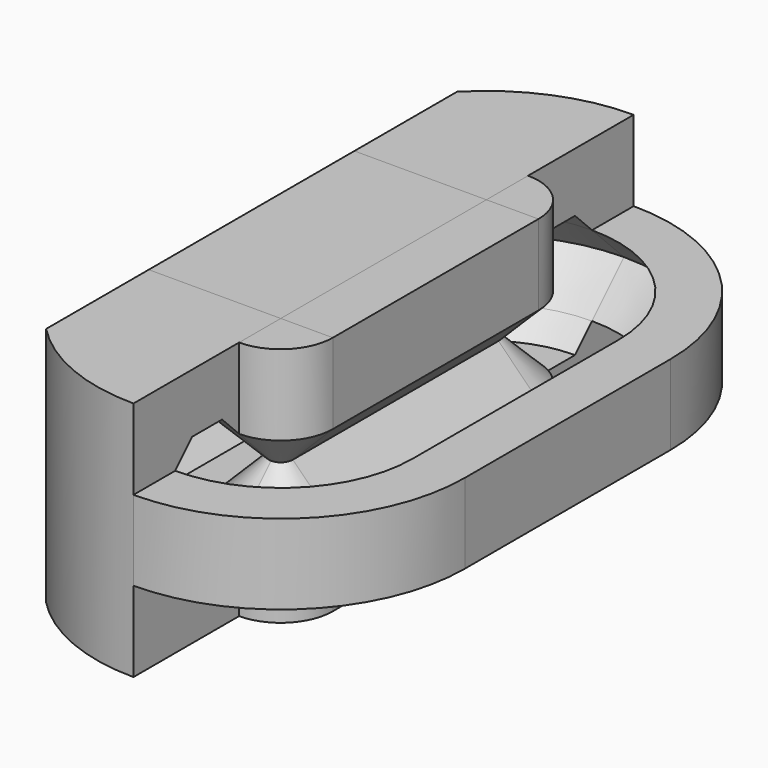
from build123d import *

# Parameters (mm, degrees)
F4_ANGLE       = 90
F6_ANGLE       = 90
F7_DEPTH       = 10
F10_DEPTH      = 3.1295758847
F11_DEPTH      = 3.1295758847
F13_DEPTH      = 14.5
F13_DEPTH_BACK = 25


with BuildPart() as f4:
    # F3 (on plane+point) → F4 (revolve)
    with BuildSketch(Plane.XZ.offset(-5.0000661737)):
        Polygon((-2.8551849101, 2.3852105297), (-2.0256090254, 1.555634645), (-0.4699743804, 0), (-2.0256090254, -1.555634645), (0, -1.555634645), (0, 0), (0, 1.555634645), (0, 4.6852105297), (-7.1624873409, 4.6852105297), (-7.1624873409, 1.555634645), (-7.1624873409, -1.555634645), (-5.1368783154, -1.555634645), (-6.6925129605, 0), (-5.1368783154, 1.555634645), (-4.3073024307, 2.3852105297), (-3.5812436704, 3.11126929), align=None)
        Polygon((-2.8551849101, 2.3852105297), (-2.0256090254, 1.555634645), (-0.4699743804, 0), (-2.0256090254, -1.555634645), (0, -1.555634645), (0, 0), (0, 1.555634645), (0, 4.6852105297), (-7.1624873409, 4.6852105297), (-7.1624873409, 1.555634645), (-7.1624873409, -1.555634645), (-5.1368783154, -1.555634645), (-6.6925129605, 0), (-5.1368783154, 1.555634645), (-4.3073024307, 2.3852105297), (-3.5812436704, 3.11126929), align=None)
        Polygon((-4.3073024307, -2.3852105297), (-5.1368783154, -1.555634645), (-7.1624873409, -1.555634645), (-7.1624873409, -4.6852105297), (0, -4.6852105297), (0, -1.555634645), (-2.0256090254, -1.555634645), (-2.8551849101, -2.3852105297), (-3.5812436704, -3.11126929), align=None)
        Polygon((-2.8551849101, -2.3852105297), (-3.5812436704, -2.3852105297), (-3.5812436704, -3.11126929), align=None)
        Polygon((-3.5812436704, -3.11126929), (-3.5812436704, -2.3852105297), (-4.3073024307, -2.3852105297), align=None)
    revolve(axis=Axis((0, 5.0000661737, -0.016850885), (0, 0, -1)), revolution_arc=F4_ANGLE)

    # F5 (on face) → F6 (revolve)
    with BuildSketch(Plane.YZ):
        Polygon((5.4700405542, 0), (7.0256751992, 1.555634645), (5.0000661737, 1.555634645), (5.0000661737, -1.555634645), (7.0256751992, -1.555634645), align=None)
        Polygon((12.1625535146, 1.555634645), (10.1369444892, 1.555634645), (11.6925791342, 0), (10.1369444892, -1.555634645), (12.1625535146, -1.555634645), align=None)
    revolve(axis=Axis((0, 5.0000661737, -0.016850885), (0, 0, -1)), revolution_arc=F6_ANGLE)

    # F7 (add): faces of the model
    f7_faces = [f4.faces().sort_by_distance(p)[0] for p in [
        (7.1253617587, 5.0000661737, 0),
        (-1.9422105795, 5.0000661737, 1.639033091),
        (1.0128045127, 5.0000661737, -1.5185090628),
    ]]
    extrude(f7_faces, amount=F7_DEPTH)

    # F8: F4 across plane


with BuildPart() as f4_1:
    add(f4.part)
    add(f4.part.mirror(Plane.XZ))

    # F9: F4 across plane


with BuildPart() as f4_2:
    add(f4_1.part)
    add(f4_1.part.mirror(Plane.XY))

    # F10 (add, through all): faces of the model
    f10_faces = [f4_2.faces().sort_by_distance(p)[0] for p in [
        (0.8596951711, 5.8597613449, -1.555634645),
        (1.0128045127, 5, -1.555634645),
        (1.0128045127, 0, -1.555634645),
        (1.0128045127, -5, -1.555634645),
        (0.8596951711, -5.8597613449, -1.555634645),
    ]]
    extrude(f10_faces, amount=F10_DEPTH)

    # F11 (add, through all): faces of the model
    f11_faces = [f4_2.faces().sort_by_distance(p)[0] for p in [
        (0.8596951711, 5.8597613449, 1.555634645),
        (1.0128045127, 5, 1.555634645),
        (1.0128045127, 0, 1.555634645),
        (1.0128045127, -5, 1.555634645),
        (0.8596951711, -5.8597613449, 1.555634645),
    ]]
    extrude(f11_faces, amount=F11_DEPTH)

    # F12 (on Front) → F13 (cut, two sides)
    with BuildSketch(Plane.XZ) as f13_sk:
        Polygon((-5.1368783154, -6.1799879186), (-5.1368783154, 5.2285962738), (-8.7532252073, 5.3635202348), (-9.4878124073, -3.8263113238), align=None)
    extrude(amount=-F13_DEPTH, mode=Mode.SUBTRACT)
    extrude(f13_sk.sketch, amount=F13_DEPTH_BACK, mode=Mode.SUBTRACT)


solid = f4_2.part
